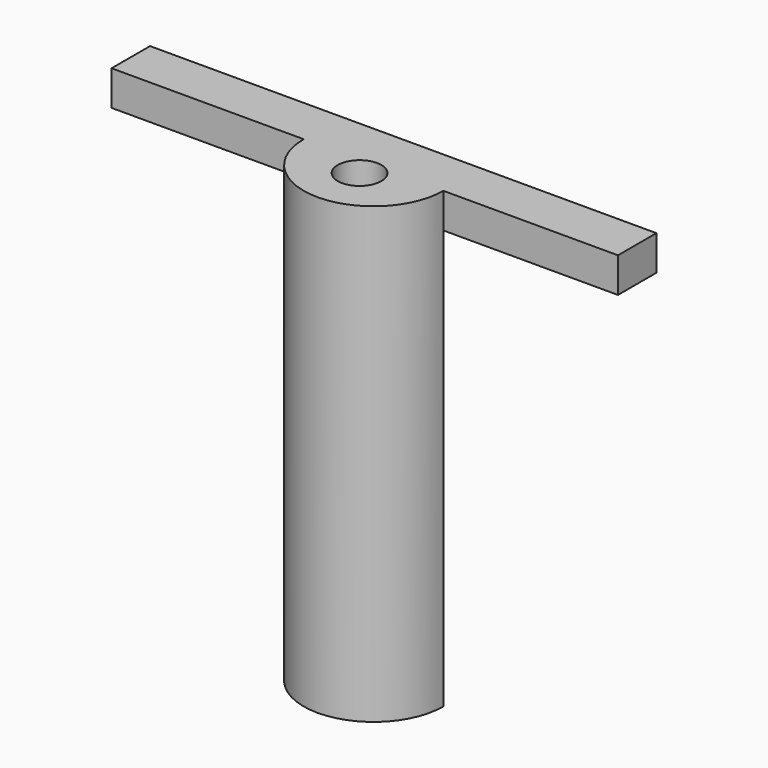
from build123d import *

# Parameters (mm, degrees)
CYLINDER007_R     = 1.25
CYLINDER007_DEPTH = 10
CYLINDER029_W     = 4
CYLINDER029_H     = 26
CYLINDER029_ANGLE = 180
BOX006_W          = 29
BOX006_H          = 2.75
BOX006_DEPTH      = 2


with BuildPart() as b_no:
    # Cylinder007 → Cylinder007 (new body)
    with BuildSketch(Plane(origin=(57, -1, 4), x_dir=(1, 0, 0), z_dir=(0, 0, 1))):
        Circle(CYLINDER007_R)
    extrude(amount=CYLINDER007_DEPTH)


with BuildPart() as s016:
    # Cylinder029 → Cylinder029 (revolve)
    with BuildSketch(Plane(origin=(57, 0, -14), x_dir=(-1, 0, 0), z_dir=(0, 1, 0))):
        with Locations((2, 13)):
            Rectangle(CYLINDER029_W, CYLINDER029_H)
    revolve(axis=Axis((57, 0, -14), (0, 0, 1)), revolution_arc=CYLINDER029_ANGLE)


with BuildPart() as obj1:
    # Box006 → Box006 (new body)
    with BuildSketch(Plane(origin=(42, 0, 10), x_dir=(1, 0, 0), z_dir=(0, 0, 1))):
        with Locations((14.5, 1.375)):
            Rectangle(BOX006_W, BOX006_H)
    extrude(amount=BOX006_DEPTH)

    # Fusion008: union S016
    add(s016.part)

    # Cut014: cut B_NO
    add(b_no.part, mode=Mode.SUBTRACT)


with BuildPart() as obj1_1:
    # Cut014 placement: moved
    add(obj1.part.moved(Location((-1, 0, 0))))


solid = obj1_1.part
